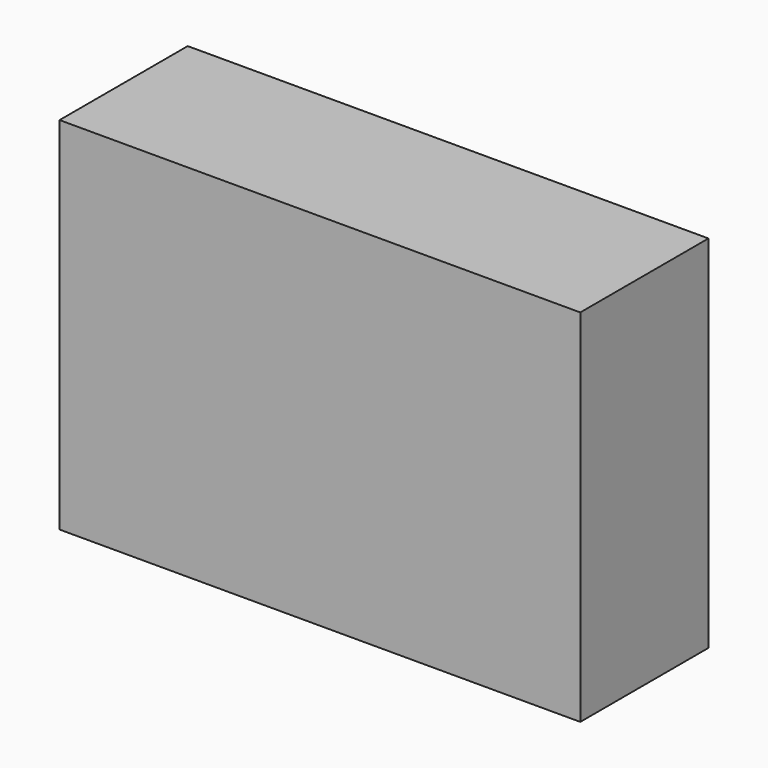
from build123d import *

# Parameters (mm, degrees)
F0_W     = 82.55
F0_H     = 57.15
F0_W_2   = 76.2
F0_H_2   = 50.8
F1_DEPTH = 25.4
F2_W     = 19.05
F2_H     = 19.05
F3_DEPTH = 22.86


with BuildPart() as f1:
    # F0 (on Front) → F1 (new body)
    with BuildSketch(Plane.XZ):
        Rectangle(F0_W, F0_H)
        Rectangle(F0_W_2, F0_H_2, mode=Mode.SUBTRACT)
        Rectangle(F0_W_2, F0_H_2)
    extrude(amount=F1_DEPTH)

    # F2 (on Front) → F3 (cut)
    with BuildSketch(Plane.XZ):
        with Locations((26.126538, 15.033415)):
            Rectangle(F2_W, F2_H)
        with Locations((0, 15.033415)):
            Rectangle(F2_W, F2_H)
        with Locations((-29.117243, 15.033415)):
            Rectangle(F2_W, F2_H)
        with Locations((-27.96792, -17.036804)):
            Rectangle(F2_W, F2_H)
        with Locations((0, -17.552111)):
            Rectangle(F2_W, F2_H)
        with Locations((26.873696, -17.036807)):
            Rectangle(F2_W, F2_H)
    extrude(amount=F3_DEPTH, mode=Mode.SUBTRACT)


solid = f1.part
